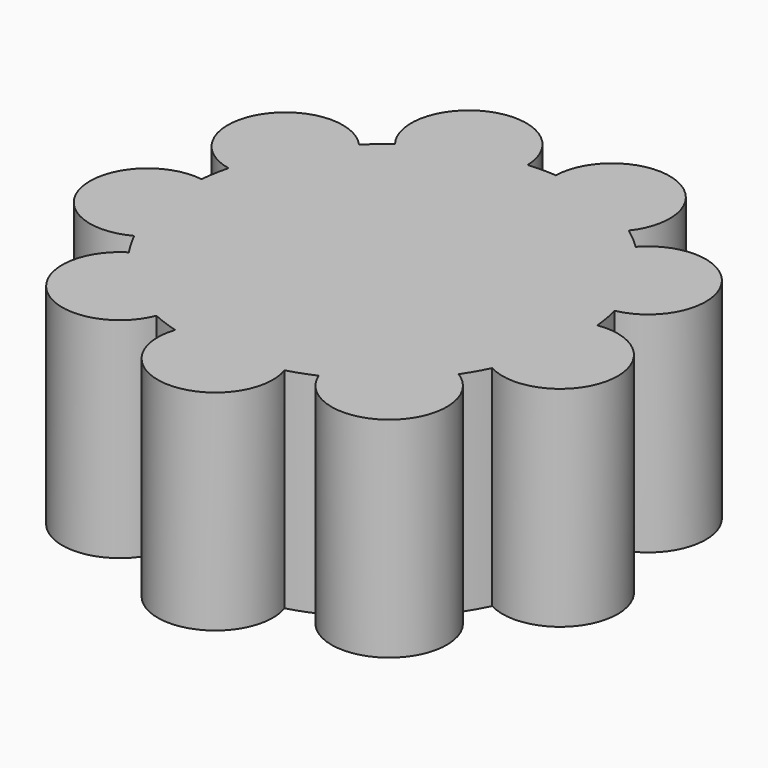
from build123d import *

# Parameters (mm, degrees)
SKETCH002_R             = 9.5
PAD001_DEPTH            = 10
SKETCH003_R             = 2.75
PAD003_DEPTH            = 10
POLARPATTERN_COUNT      = 9
BODY001_PLACEMENT_ANGLE = 340


with BuildPart() as part:
    # Sketch002 → Pad001 (new body)
    with BuildSketch(Plane.XY):
        Circle(SKETCH002_R)
    extrude(amount=PAD001_DEPTH)

    # Sketch003 (on Face3 of Pad001) → Pad003 (join)
    with BuildSketch(Plane.XY.offset(10)):
        with Locations((0, 10)):
            Circle(SKETCH003_R)
    pad003 = extrude(amount=-PAD003_DEPTH)

    # PolarPattern: Pad003 ×9 about axis
    polarpattern_axis = Axis((0, 0, 10), (0, 0, 1))
    for i in range(1, POLARPATTERN_COUNT):
        add(pad003.rotate(polarpattern_axis, i * 360 / POLARPATTERN_COUNT))


with BuildPart() as part_1:
    # Body001 placement: moved
    add(part.part.rotate(Axis((0, 0, 0), (0, 0, 1)), BODY001_PLACEMENT_ANGLE))


solid = part_1.part
